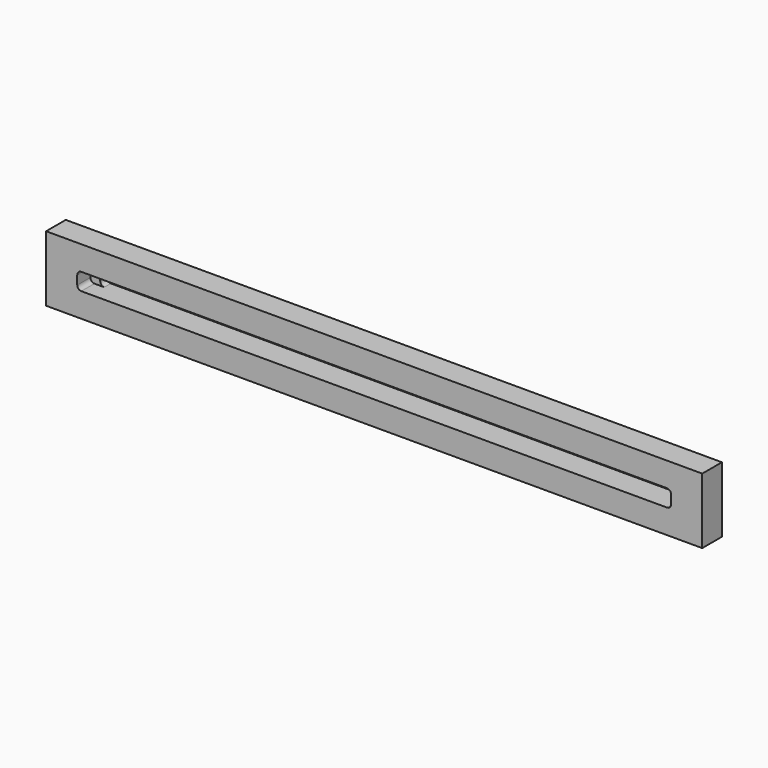
from build123d import *

# Parameters (mm, degrees)
F0_W     = 508
F0_H     = 50.8
F1_DEPTH = 19.05
F3_DEPTH = 12.7
F5_DEPTH = 25.4


with BuildPart() as f1:
    # F0 (on Front) → F1 (new body)
    with BuildSketch(Plane.XZ):
        with Locations((254, 25.4)):
            Rectangle(F0_W, F0_H)
    extrude(amount=F1_DEPTH)

    # F2 (on face) → F3 (cut)
    with BuildSketch(Plane.XZ.offset(19.05)):
        with BuildLine():
            Line((480.695, 32.004), (27.305, 32.004))
            ThreePointArc((27.305, 32.004), (25.059936, 31.074064), (24.13, 28.829))
            Line((24.13, 28.829), (24.13, 21.971))
            ThreePointArc((24.13, 21.971), (25.059936, 19.725936), (27.305, 18.796))
            Line((27.305, 18.796), (480.695, 18.796))
            ThreePointArc((480.695, 18.796), (482.940064, 19.725936), (483.87, 21.971))
            Line((483.87, 21.971), (483.87, 28.829))
            ThreePointArc((483.87, 28.829), (482.940064, 31.074064), (480.695, 32.004))
        make_face()
    extrude(amount=-F3_DEPTH, mode=Mode.SUBTRACT)

    # F4 (on face) → F5 (cut)
    with BuildSketch(Plane.XZ.offset(19.05)):
        with BuildLine():
            Line((473.075, 32.004), (34.925, 32.004))
            ThreePointArc((34.925, 32.004), (32.679936, 31.074064), (31.75, 28.829))
            Line((31.75, 28.829), (31.75, 21.971))
            ThreePointArc((31.75, 21.971), (32.679936, 19.725936), (34.925, 18.796))
            Line((34.925, 18.796), (473.075, 18.796))
            ThreePointArc((473.075, 18.796), (475.320064, 19.725936), (476.25, 21.971))
            Line((476.25, 21.971), (476.25, 28.829))
            ThreePointArc((476.25, 28.829), (475.320064, 31.074064), (473.075, 32.004))
        make_face()
    extrude(amount=-F5_DEPTH, mode=Mode.SUBTRACT)


solid = f1.part
